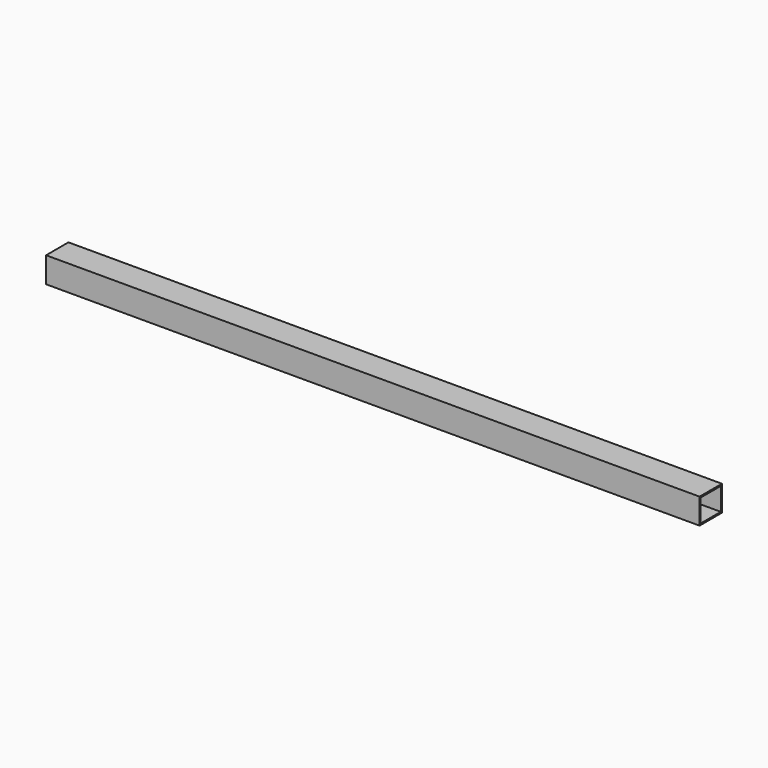
from build123d import *

# Parameters (mm, degrees)
F0_W     = 49.9999
F0_H     = 45.72
F1_DEPTH = 1168.4
F2_T     = -2.54


with BuildPart() as f1:
    # F0 (on Right) → F1 (new body)
    with BuildSketch(Plane.YZ):
        Rectangle(F0_W, F0_H)
    extrude(amount=F1_DEPTH)

    # F2
    f2_openings = [f1.faces().sort_by_distance(p)[0] for p in [
        (1168.4, 0, 0),
    ]]
    offset(amount=F2_T, openings=f2_openings)


solid = f1.part
